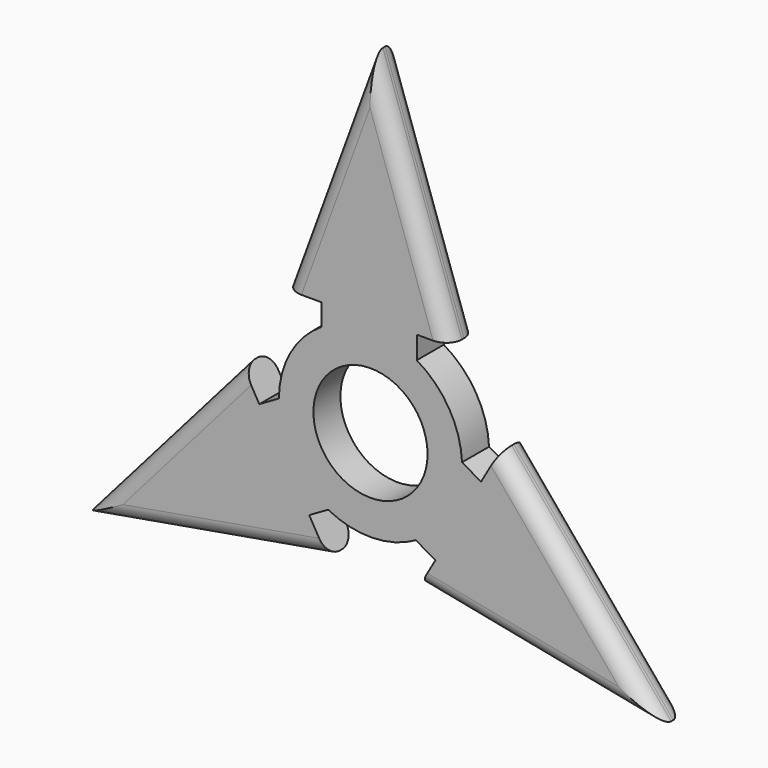
from build123d import *

# Parameters (mm, degrees)
F0_R     = 11
F1_DEPTH = 6.5
F2_R     = 3
F3_R     = 3


with BuildPart() as f1:
    # F0 (on Front) → F1 (new body)
    with BuildSketch(Plane.XZ):
        with BuildLine():
            ThreePointArc((8.740666, -15.348029), (15.269948, -8.87637), (17.662425, 0))
            ThreePointArc((17.662425, 0), (17.658261, 0.383509), (17.64577, 0.766837))
            ThreePointArc((17.64577, 0.766837), (15.127751, 9.1166), (8.92145, 15.243654))
            ThreePointArc((8.92145, 15.243654), (-0.331332, 17.659317), (-9.486986, 14.898267))
            ThreePointArc((-9.486986, 14.898267), (-15.459083, 8.542717), (-17.662116, 0.104376))
            ThreePointArc((-17.662116, 0.104376), (-15.127751, -9.1166), (-8.158784, -15.665104))
            ThreePointArc((-8.158784, -15.665104), (0.331332, -17.659317), (8.740666, -15.348029))
        make_face()
        Circle(F0_R, mode=Mode.SUBTRACT)
        with BuildLine():
            ThreePointArc((17.64577, 0.766837), (17.658261, 0.383509), (17.662425, 0))
            ThreePointArc((17.662425, 0), (15.269948, -8.87637), (8.740666, -15.348029))
            Line((8.740666, -15.348029), (12.508677, -17.523491))
            Line((12.508677, -17.523491), (9.359866, -22.977391))
            Line((9.359866, -22.977391), (55.553557, -32.073861))
            Line((55.553557, -32.073861), (24.805502, 4.744098))
            Line((24.805502, 4.744098), (21.293365, -1.339102))
            Line((21.293365, -1.339102), (17.64577, 0.766837))
        make_face()
        with BuildLine():
            ThreePointArc((-9.486986, 14.898267), (-0.331332, 17.659317), (8.92145, 15.243654))
            Line((8.92145, 15.243654), (8.92145, 19.594578))
            Line((8.92145, 19.594578), (15.219072, 19.594578))
            Line((15.219072, 19.594578), (0, 64.147722))
            Line((0, 64.147722), (-16.51126, 19.110146))
            Line((-16.51126, 19.110146), (-9.486986, 19.110146))
            Line((-9.486986, 19.110146), (-9.486986, 14.898267))
        make_face()
        with BuildLine():
            Line((-11.806379, -17.771044), (-8.158784, -15.665104))
            ThreePointArc((-8.158784, -15.665104), (-15.127751, -9.1166), (-17.662116, 0.104376))
            Line((-17.662116, 0.104376), (-21.430127, -2.071086))
            Line((-21.430127, -2.071086), (-24.578938, 3.382814))
            Line((-24.578938, 3.382814), (-55.553557, -32.073861))
            Line((-55.553557, -32.073861), (-8.294242, -23.854243))
            Line((-8.294242, -23.854243), (-11.806379, -17.771044))
        make_face()
    extrude(amount=F1_DEPTH)

    # F2
    f2_edges = [f1.edges().sort_by_distance(p)[0] for p in [
        (-8.25563, -6.5, 41.628934),
        (7.609536, -6.5, 41.87115),
        (40.179529, -6.5, -13.664882),
        (32.456712, -6.5, -27.525626),
        (-31.923899, -6.5, -27.964052),
        (-40.066247, -6.5, -14.345524),
    ]]
    fillet(f2_edges, radius=F2_R)

    # F3
    f3_edges = [f1.edges().sort_by_distance(p)[0] for p in [
        (40.179529, 0, -13.664882),
        (-31.923899, 0, -27.964052),
        (32.456712, 0, -27.525626),
        (-40.066247, 0, -14.345524),
        (-8.25563, 0, 41.628934),
        (7.609536, 0, 41.87115),
    ]]
    fillet(f3_edges, radius=F3_R)


solid = f1.part
